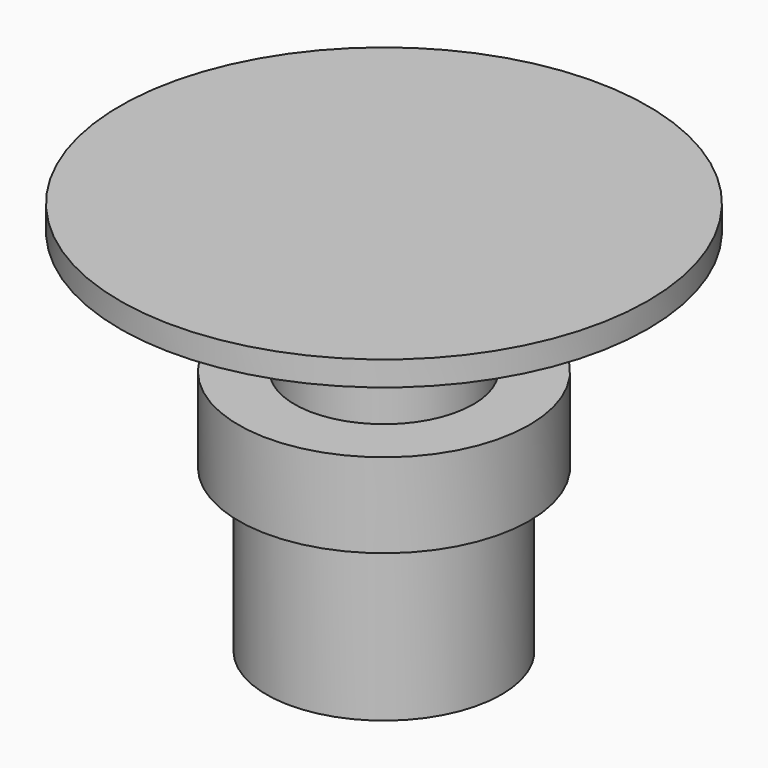
from build123d import *

# Parameters (mm, degrees)
F0_R     = 16.7
F1_DEPTH = 23
F2_T     = -2.5
F3_R     = 20.65
F3_R_2   = 16.7
F4_DEPTH = 12
F5_R     = 12.7
F6_DEPTH = 17.5
F7_T     = -2.5
F8_R     = 37.5
F8_R_2   = 12.7
F8_R_3   = 10.2
F9_DEPTH = 3.5


with BuildPart() as f1:
    # F0 (on Top) → F1 (new body)
    with BuildSketch(Plane.XY):
        Circle(F0_R)
    extrude(amount=F1_DEPTH)

    # F2
    f2_openings = [f1.faces().sort_by_distance(p)[0] for p in [
        (0, 0, 0),
    ]]
    offset(amount=F2_T, openings=f2_openings)

    # F3 (on face) → F4 (join)
    with BuildSketch(Plane.XY.offset(23)):
        Circle(F3_R)
        Circle(F3_R_2, mode=Mode.SUBTRACT)
        Circle(F3_R_2)
    extrude(amount=F4_DEPTH)

    # F5 (on face) → F6 (join)
    with BuildSketch(Plane.XY.offset(35)):
        Circle(F5_R)
    extrude(amount=F6_DEPTH)

    # F7
    f7_openings = [f1.faces().sort_by_distance(p)[0] for p in [
        (0, 0, 52.5),
    ]]
    offset(amount=F7_T, openings=f7_openings, kind=Kind.INTERSECTION)

    # F8 (on face) → F9 (join)
    with BuildSketch(Plane.XY.offset(52.5)):
        Circle(F8_R)
        Circle(F8_R_2, mode=Mode.SUBTRACT)
        Circle(F8_R_2)
        Circle(F8_R_3, mode=Mode.SUBTRACT)
        Circle(F8_R_3)
    extrude(amount=F9_DEPTH)


solid = f1.part
